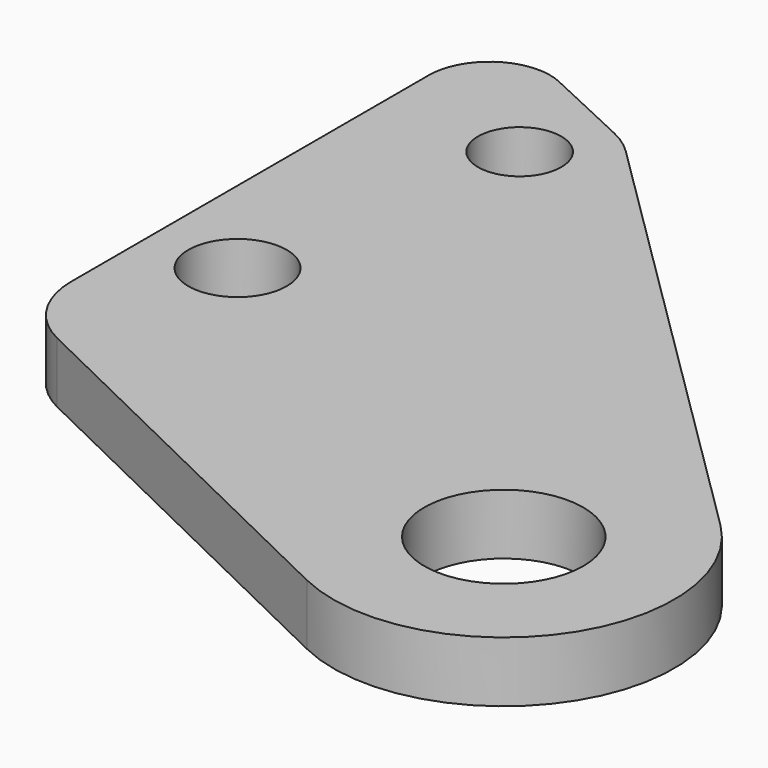
from build123d import *

# Parameters (mm, degrees)
F0_R     = 3.25
F0_R_2   = 5.25
F0_R_3   = 2.75
F1_DEPTH = 4
F2_R     = 6
F3_R     = 4


with BuildPart() as f1:
    # F0 (on Top) → F1 (new body)
    with BuildSketch(Plane.XY):
        with BuildLine():
            Line((-35.216862, 4.573831), (-4.908502, -10.122703))
            ThreePointArc((-4.908502, -10.122703), (9.185091, -6.495891), (7.908829, 8.000807))
            Line((7.908829, 8.000807), (-22.747156, 38.304369))
            Line((-22.747156, 38.304369), (-35.216862, 44.119088))
            Line((-35.216862, 44.119088), (-35.216862, 4.573831))
        make_face()
        with Locations((-29.466862, 14.856111)):
            Circle(F0_R, mode=Mode.SUBTRACT)
        Circle(F0_R_2, mode=Mode.SUBTRACT)
        with Locations((-26.216862, 34.08337)):
            Circle(F0_R_3, mode=Mode.SUBTRACT)
    extrude(amount=F1_DEPTH)

    # F2
    f2_edges = [f1.edges().sort_by_distance(p)[0] for p in [
        (-22.747156, 38.304369, 2),
        (-35.216862, 4.573831, 2),
    ]]
    fillet(f2_edges, radius=F2_R)

    # F3
    f3_edges = [f1.edges().sort_by_distance(p)[0] for p in [
        (-35.216862, 44.119088, 2),
    ]]
    fillet(f3_edges, radius=F3_R)


solid = f1.part
